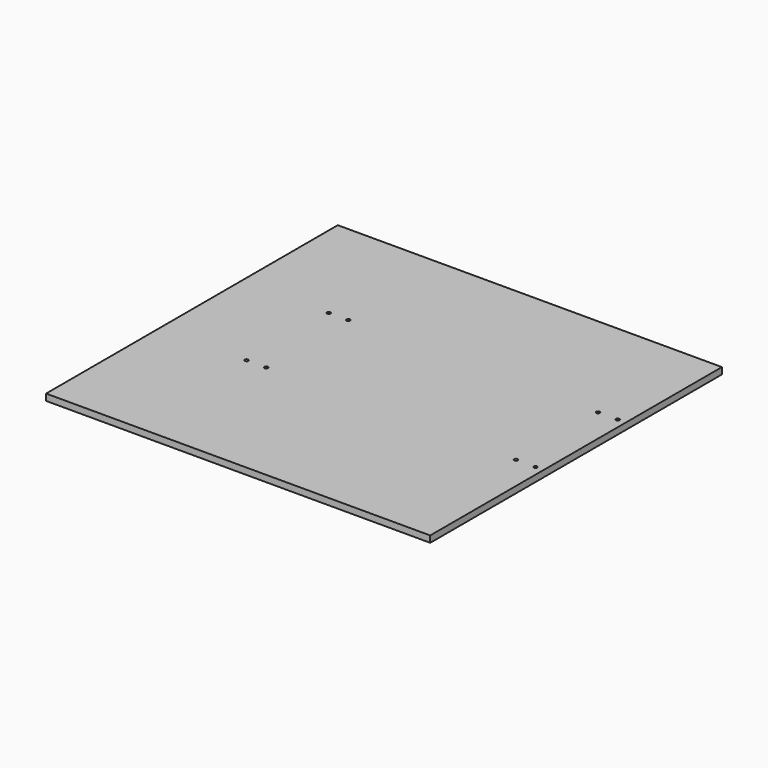
from build123d import *

# Parameters (mm, degrees)
F0_W     = 374.65
F0_H     = 355.6
F0_R     = 1.7272
F1_DEPTH = 6.35


with BuildPart() as f1:
    # F0 (on Top) → F1 (new body)
    with BuildSketch(Plane.XY):
        with Locations((187.325, -177.8)):
            Rectangle(F0_W, F0_H)
        with Locations((85.001303, -217.344015)):
            Circle(F0_R, mode=Mode.SUBTRACT)
        with Locations((104.051303, -217.344015)):
            Circle(F0_R, mode=Mode.SUBTRACT)
        with Locations((347.6625, -217.344015)):
            Circle(F0_R, mode=Mode.SUBTRACT)
        with Locations((366.7125, -217.344015)):
            Circle(F0_R, mode=Mode.SUBTRACT)
        with Locations((85.001303, -117.188031)):
            Circle(F0_R, mode=Mode.SUBTRACT)
        with Locations((104.051303, -117.188031)):
            Circle(F0_R, mode=Mode.SUBTRACT)
        with Locations((347.6625, -117.188031)):
            Circle(F0_R, mode=Mode.SUBTRACT)
        with Locations((366.7125, -117.188031)):
            Circle(F0_R, mode=Mode.SUBTRACT)
    extrude(amount=F1_DEPTH)


solid = f1.part
